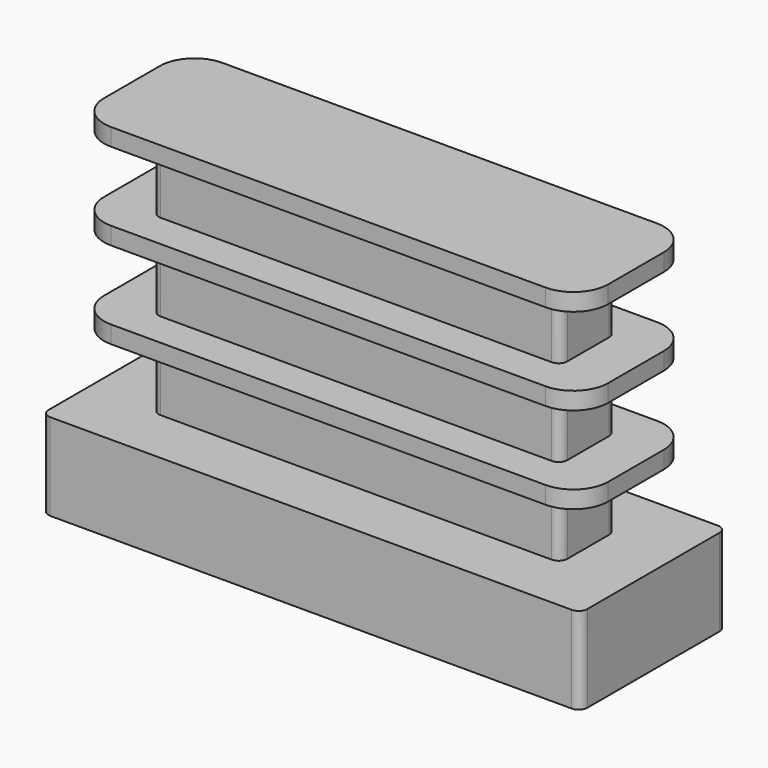
from build123d import *

# Parameters (mm, degrees)
F1_DEPTH = 5.25
F2_DEPTH = 4
F0_W     = 23.5
F0_H     = 4
F3_DEPTH = 2
F4_R     = 0.5
F5_R     = 2


with BuildPart() as f1:
    # F0 (on Front) → F1 (new body, symmetric)
    with BuildSketch(Plane.XZ):
        Polygon((-11.75, 0), (-15.5, 0), (-15.5, -5), (15.5, -5), (15.5, 0), (11.75, 0), align=None)
    extrude(amount=F1_DEPTH, both=True)



with BuildPart() as f2:
    # F0 (on Front) → F2 (new body, symmetric)
    with BuildSketch(Plane.XZ):
        Polygon((-14.5, 4), (-11.75, 4), (11.75, 4), (14.5, 4), (14.5, 5), (11.75, 5), (-11.75, 5), (-14.5, 5), align=None)
        Polygon((-14.5, 9), (-11.75, 9), (11.75, 9), (14.5, 9), (14.5, 10), (11.75, 10), (-11.75, 10), (-14.5, 10), align=None)
        Polygon((-14.5, 14), (-11.75, 14), (11.75, 14), (14.5, 14), (14.5, 15), (-14.5, 15), align=None)
    extrude(amount=F2_DEPTH, both=True)


with BuildPart() as f1_1:
    add(f1.part)

    add(f2.part)  # F3 merges F2
    # F0 (on Front) → F3 (join, symmetric)
    with BuildSketch(Plane.XZ):
        with Locations((0, 2)):
            Rectangle(F0_W, F0_H)
        with Locations((0, 7)):
            Rectangle(F0_W, F0_H)
        with Locations((0, 12)):
            Rectangle(F0_W, F0_H)
    extrude(amount=F3_DEPTH, both=True)

    # F4
    f4_edges = [f1_1.edges().sort_by_distance(p)[0] for p in [
        (15.5, -5.25, -2.5),
        (15.5, 5.25, -2.5),
        (-15.5, -5.25, -2.5),
        (-11.75, -2, 2),
        (-11.75, -2, 7),
        (-11.75, -2, 12),
        (11.75, -2, 2),
        (11.75, -2, 7),
        (11.75, -2, 12),
        (11.75, 2, 2),
        (11.75, 2, 7),
        (11.75, 2, 12),
        (-15.5, 5.25, -2.5),
        (-11.75, 2, 2),
        (-11.75, 2, 7),
        (-11.75, 2, 12),
    ]]
    fillet(f4_edges, radius=F4_R)

    # F5
    f5_edges = [f1_1.edges().sort_by_distance(p)[0] for p in [
        (-14.5, 4, 4.5),
        (-14.5, 4, 9.5),
        (-14.5, 4, 14.5),
        (-14.5, -4, 14.5),
        (-14.5, -4, 9.5),
        (-14.5, -4, 4.5),
        (14.5, -4, 14.5),
        (14.5, -4, 9.5),
        (14.5, -4, 4.5),
        (14.5, 4, 4.5),
        (14.5, 4, 9.5),
        (14.5, 4, 14.5),
    ]]
    fillet(f5_edges, radius=F5_R)


solid = f1_1.part
